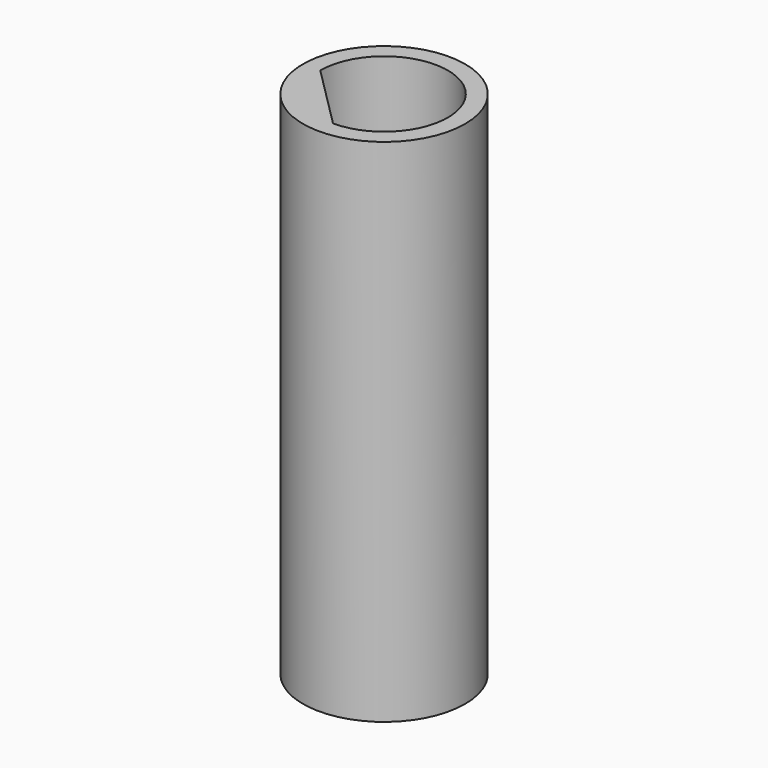
from build123d import *

# Parameters (mm, degrees)
F0_R     = 3.175
F1_DEPTH = 20.0025


with BuildPart() as f1:
    # F0 (on Top) → F1 (new body)
    with BuildSketch(Plane.XY):
        Circle(F0_R)
        with BuildLine():
            ThreePointArc((-2.5, 0), (1.767767, 1.767767), (0, -2.5))
            Line((0, -2.5), (-2.5, 0))
        make_face(mode=Mode.SUBTRACT)
    extrude(amount=F1_DEPTH)


solid = f1.part
